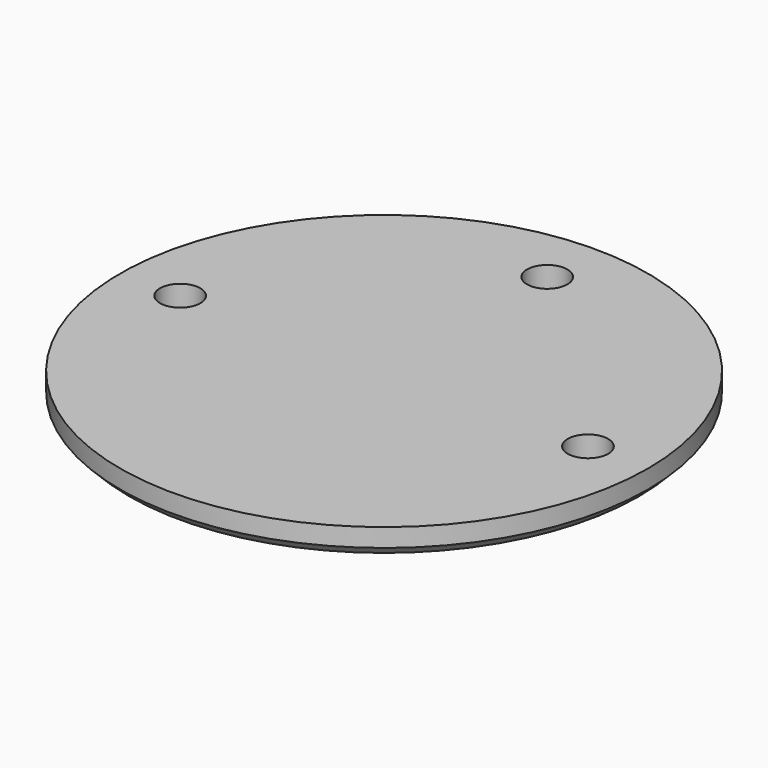
from build123d import *

# Parameters (mm, degrees)
F0_R     = 36.5
F0_R_2   = 2.794
F1_DEPTH = 3.81
F2_SIZE  = 1.27


with BuildPart() as f1:
    # F0 (on Top) → F1 (new body)
    with BuildSketch(Plane.XY):
        Circle(F0_R)
        with Locations((-28.194, 0)):
            Circle(F0_R_2, mode=Mode.SUBTRACT)
        with Locations((28.194, 0)):
            Circle(F0_R_2, mode=Mode.SUBTRACT)
        with Locations((0, 28.194)):
            Circle(F0_R_2, mode=Mode.SUBTRACT)
    extrude(amount=F1_DEPTH)

    # F2
    f2_edges = [f1.edges().sort_by_distance(p)[0] for p in [
        (-36.5, 0, 0),
    ]]
    chamfer(f2_edges, length=F2_SIZE)


solid = f1.part
